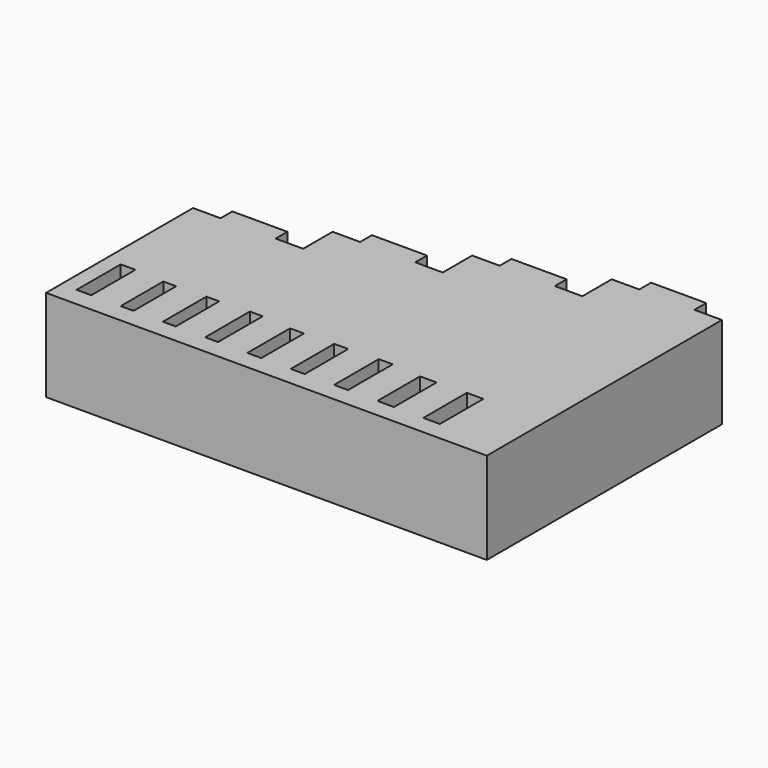
from build123d import *

# Parameters (mm, degrees)
F0_W     = 4
F0_H     = 15
F0_W_2   = 3.5
F0_H_2   = 14.5
F0_H_3   = 14.8
F0_H_4   = 15.2
F0_W_3   = 3.8
F0_W_4   = 4.5
F0_W_5   = 15
F0_H_5   = 4
F1_DEPTH = 25


with BuildPart() as f1:
    # F0 (on Top) → F1 (new body)
    with BuildSketch(Plane.XY):
        Polygon((37.5, 40), (30, 40), (30, 30), (22.5, 30), (7.5, 30), (0, 30), (0, 20), (-7.5, 20), (-22.5, 20), (-30, 20), (-30, 10), (-37.5, 10), (-52.5, 10), (-60, 10), (-60, -40), (60, -40), (60, 40), (52.5, 40), align=None)
        with Locations((-53.802152, -27.360671)):
            Rectangle(F0_W, F0_H, mode=Mode.SUBTRACT)
        with Locations((-42.052152, -27.610671)):
            Rectangle(F0_W_2, F0_H_2, mode=Mode.SUBTRACT)
        with Locations((-30.552152, -27.460671)):
            Rectangle(F0_W_2, F0_H_3, mode=Mode.SUBTRACT)
        with Locations((-19.052152, -27.260671)):
            Rectangle(F0_W_2, F0_H_4, mode=Mode.SUBTRACT)
        with Locations((-7.402152, -27.610671)):
            Rectangle(F0_W_3, F0_H_2, mode=Mode.SUBTRACT)
        with Locations((4.397848, -27.460671)):
            Rectangle(F0_W_3, F0_H_3, mode=Mode.SUBTRACT)
        with Locations((16.197848, -27.260671)):
            Rectangle(F0_W_3, F0_H_4, mode=Mode.SUBTRACT)
        with Locations((28.347848, -27.610671)):
            Rectangle(F0_W_4, F0_H_2, mode=Mode.SUBTRACT)
        with Locations((40.847848, -27.460671)):
            Rectangle(F0_W_4, F0_H_3, mode=Mode.SUBTRACT)
        with Locations((45, 42)):
            Rectangle(F0_W_5, F0_H_5)
        with Locations((15, 32)):
            Rectangle(F0_W_5, F0_H_5)
        with Locations((-15, 22)):
            Rectangle(F0_W_5, F0_H_5)
        with Locations((-45, 12)):
            Rectangle(F0_W_5, F0_H_5)
    extrude(amount=F1_DEPTH)


solid = f1.part
